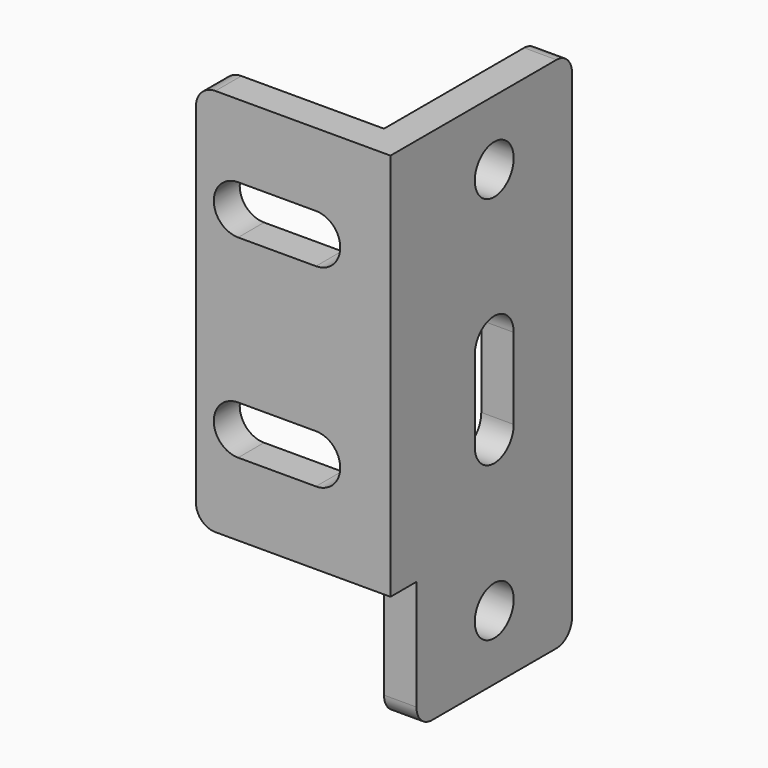
from build123d import *

# Parameters (mm, degrees)
F1_DEPTH  = 152.146
F2_W      = 12.7
F2_H      = 76.2
F3_DEPTH  = 50.8
F4_R      = 7.62
F5_R      = 7.62
F6_R      = 7.62
F8_DEPTH  = 25.4
F9_R      = 9.525
F10_DEPTH = 12.701


with BuildPart() as f1:
    # F0 (on Top) → F1 (new body)
    with BuildSketch(Plane.XY):
        Polygon((0, 12.7), (0, 0), (76.2, 0), (76.2, 88.9), (63.5, 88.9), (63.5, 12.7), align=None)
    extrude(amount=F1_DEPTH)

    # F2 (on face) → F3 (join)
    with BuildSketch(Plane(origin=(0, 0, 0), x_dir=(1, 0, 0), z_dir=(0, 0, -1))):
        with Locations((69.85, -50.8)):
            Rectangle(F2_W, F2_H)
    extrude(amount=F3_DEPTH)

    # F4
    f4_edges = [f1.edges().sort_by_distance(p)[0] for p in [
        (0, 6.35, 0),
        (0, 6.35, 152.146),
    ]]
    fillet(f4_edges, radius=F4_R)

    # F5
    f5_edges = [f1.edges().sort_by_distance(p)[0] for p in [
        (69.85, 88.9, 152.146),
    ]]
    fillet(f5_edges, radius=F5_R)

    # F6
    f6_edges = [f1.edges().sort_by_distance(p)[0] for p in [
        (69.85, 12.7, -50.8),
        (69.85, 88.9, -50.8),
    ]]
    fillet(f6_edges, radius=F6_R)

    # F7 (on face) → F8 (cut)
    with BuildSketch(Plane(origin=(0, 12.7, 0), x_dir=(-1, 0, 0), z_dir=(0, 1, 0))):
        with BuildLine():
            Line((-46.99, 28.575), (-16.51, 28.575))
            ThreePointArc((-16.51, 28.575), (-6.985, 38.1), (-16.51, 47.625))
            Line((-16.51, 47.625), (-46.99, 47.625))
            ThreePointArc((-46.99, 47.625), (-56.515, 38.1), (-46.99, 28.575))
        make_face()
        with BuildLine():
            Line((-46.99, 104.521), (-16.51, 104.521))
            ThreePointArc((-16.51, 104.521), (-6.985, 114.046), (-16.51, 123.571))
            Line((-16.51, 123.571), (-46.99, 123.571))
            ThreePointArc((-46.99, 123.571), (-56.515, 114.046), (-46.99, 104.521))
        make_face()
    extrude(amount=-F8_DEPTH, mode=Mode.SUBTRACT)

    # F9 (on face) → F10 (cut, through all)
    with BuildSketch(Plane(origin=(63.5, 0, 0), x_dir=(0, -1, 0), z_dir=(-1, 0, 0))):
        with Locations((-50.8, -25.4)):
            Circle(F9_R)
        with BuildLine():
            Line((-41.275, 34.925002), (-41.275, 66.675002))
            ThreePointArc((-41.275, 66.675002), (-50.800002, 76.199998), (-60.325, 66.674998))
            Line((-60.325, 66.674998), (-60.325, 34.924998))
            ThreePointArc((-60.325, 34.924998), (-50.799998, 25.399998), (-41.275, 34.925002))
        make_face()
        with Locations((-50.8, 126.746)):
            Circle(F9_R)
    extrude(amount=-F10_DEPTH, mode=Mode.SUBTRACT)


solid = f1.part
